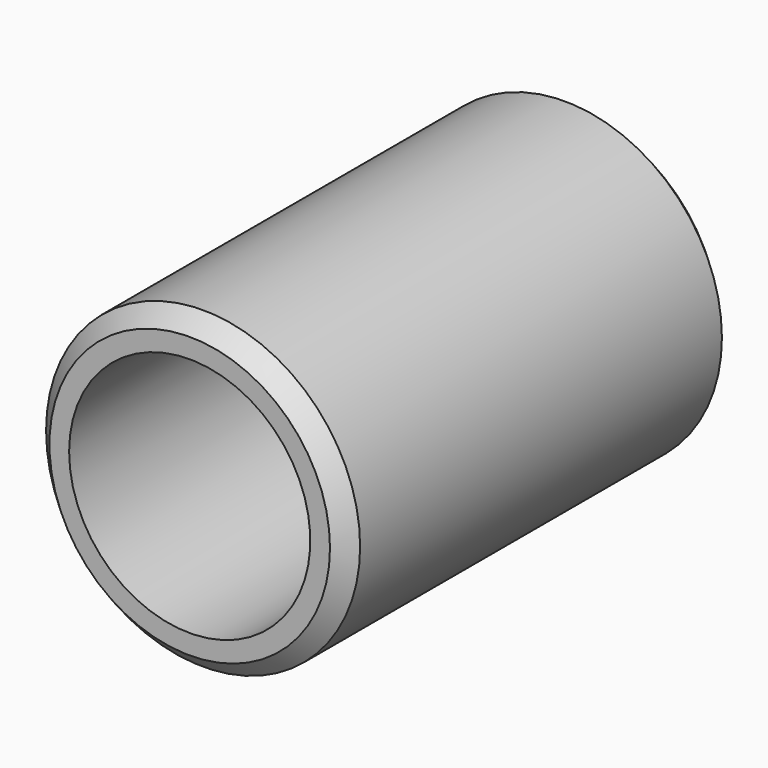
from build123d import *

# Parameters (mm, degrees)
F0_R     = 2.38125
F1_DEPTH = 7.366
F3_D     = 3.6576
F4_SIZE2 = 0.254
F4_SIZE  = 0.254


with BuildPart() as f1:
    # F0 (on Front) → F1 (new body)
    with BuildSketch(Plane.XZ):
        Circle(F0_R)
    extrude(amount=F1_DEPTH)

    # F3 (through all)
    with Locations(Plane.XZ.offset(7.366)):
        with Locations((0, 0)):
            Hole(F3_D / 2)

    # F4
    f4_edges = [f1.edges().sort_by_distance(p)[0] for p in [
        (-2.38125, -7.366, 0),
        (-2.38125, 0, 0),
    ]]
    chamfer(f4_edges, length=F4_SIZE, length2=F4_SIZE2)


solid = f1.part
